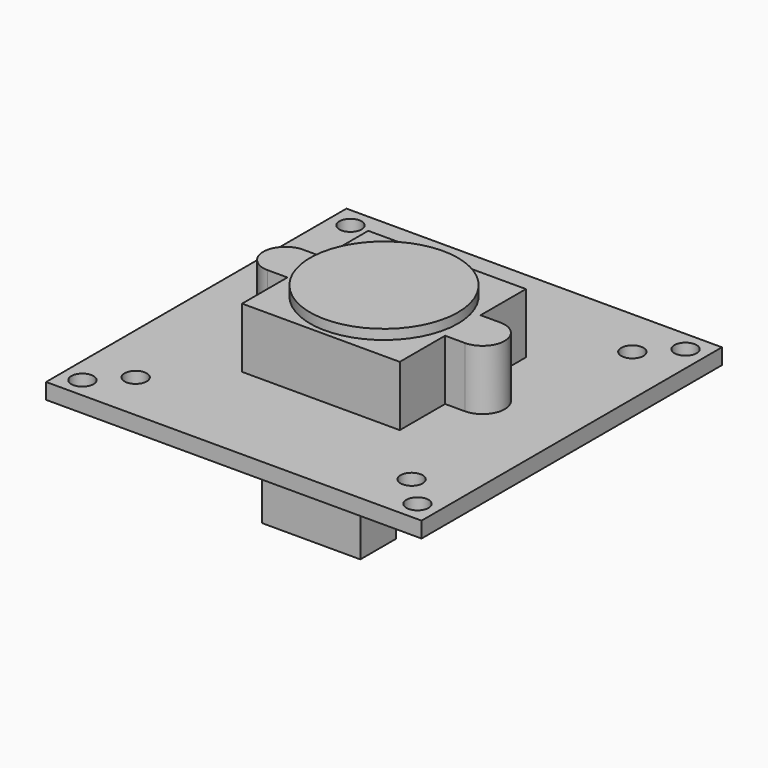
from build123d import *

# Parameters (mm, degrees)
SKETCH_W     = 38.1
SKETCH_H     = 38.1
SKETCH_R     = 1.125
PAD_DEPTH    = 1.6
PAD001_DEPTH = 6.1
SKETCH002_R  = 7.5
PAD002_DEPTH = 1
SKETCH003_W  = 10
SKETCH003_H  = 4.5
PAD003_DEPTH = 6.25


with BuildPart() as part:
    # Sketch → Pad (new body)
    with BuildSketch(Plane.XY):
        Rectangle(SKETCH_W, SKETCH_H)
        with Locations((-14, 14)):
            Circle(SKETCH_R, mode=Mode.SUBTRACT)
        with Locations((14, 14)):
            Circle(SKETCH_R, mode=Mode.SUBTRACT)
        with Locations((14, -14)):
            Circle(SKETCH_R, mode=Mode.SUBTRACT)
        with Locations((-14, -14)):
            Circle(SKETCH_R, mode=Mode.SUBTRACT)
        with Locations((-17, 17)):
            Circle(SKETCH_R, mode=Mode.SUBTRACT)
        with Locations((17, 17)):
            Circle(SKETCH_R, mode=Mode.SUBTRACT)
        with Locations((17, -17)):
            Circle(SKETCH_R, mode=Mode.SUBTRACT)
        with Locations((-17, -17)):
            Circle(SKETCH_R, mode=Mode.SUBTRACT)
    extrude(amount=-PAD_DEPTH)

    # Sketch001 → Pad001 (join)
    with BuildSketch(Plane.XY):
        with BuildLine():
            Line((-8, 2.25), (-8, 8))
            Line((-8, 8), (8, 8))
            Line((8, 8), (8, 2.25))
            Line((8, 2.25), (10.000011, 2.25))
            ThreePointArc((10.000011, -2.25), (12.25, 0), (10.000011, 2.25))
            Line((8, -2.25), (10.000011, -2.25))
            Line((8, -8), (8, -2.25))
            Line((-8, -8), (8, -8))
            Line((-8, -2.25), (-8, -8))
            Line((-9.999989, -2.25), (-8, -2.25))
            ThreePointArc((-10, 2.25), (-12.25, -6e-06), (-9.999989, -2.25))
            Line((-10, 2.25), (-8, 2.25))
        make_face()
    extrude(amount=PAD001_DEPTH)

    # Sketch002 (on DatumPlane) → Pad002 (join)
    with BuildSketch(Plane.XY.offset(6.1)):
        Circle(SKETCH002_R)
    extrude(amount=PAD002_DEPTH)

    # Sketch003 (on DatumPlane) → Pad003 (join)
    with BuildSketch(Plane(origin=(0, 0, -1.6), x_dir=(1, 0, 0), z_dir=(0, 0, -1))):
        with Locations((5, 13.25)):
            Rectangle(SKETCH003_W, SKETCH003_H)
    extrude(amount=PAD003_DEPTH)


solid = part.part
